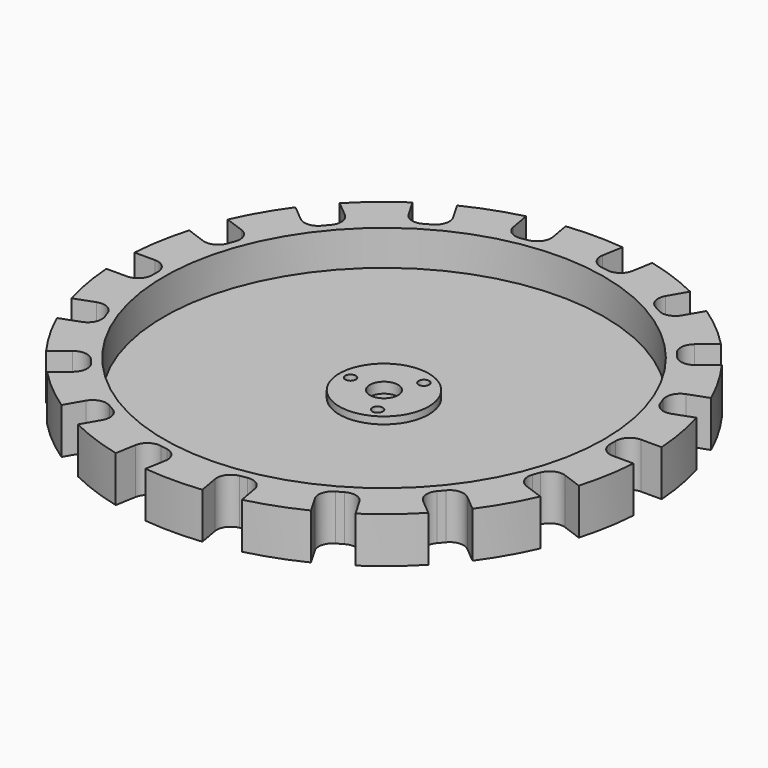
from build123d import *

# Parameters (mm, degrees)
F0_R     = 62.5
F0_R_2   = 12.7
F0_R_3   = 1.5
F0_R_4   = 4
F1_DEPTH = 3
F2_DEPTH = 13
F3_DEPTH = 5
F4_DEPTH = 2


with BuildPart() as f1:
    # F0 (on Top) → F1 (new body)
    with BuildSketch(Plane.XY):
        Circle(F0_R)
        Circle(F0_R_2, mode=Mode.SUBTRACT)
        Circle(F0_R_2)
        with Locations((-4.75, -8.227241)):
            Circle(F0_R_3, mode=Mode.SUBTRACT)
        with Locations((4.75, -8.227241)):
            Circle(F0_R_3, mode=Mode.SUBTRACT)
        with Locations((-9.5, 0)):
            Circle(F0_R_3, mode=Mode.SUBTRACT)
        with Locations((-4.75, 8.227241)):
            Circle(F0_R_3, mode=Mode.SUBTRACT)
        Circle(F0_R_4, mode=Mode.SUBTRACT)
        with Locations((4.75, 8.227241)):
            Circle(F0_R_3, mode=Mode.SUBTRACT)
        with Locations((9.5, 0)):
            Circle(F0_R_3, mode=Mode.SUBTRACT)
        with Locations((9.5, 0)):
            Circle(F0_R_3)
        with Locations((4.75, 8.227241)):
            Circle(F0_R_3)
        with Locations((-4.75, 8.227241)):
            Circle(F0_R_3)
        with Locations((-9.5, 0)):
            Circle(F0_R_3)
        with Locations((-4.75, -8.227241)):
            Circle(F0_R_3)
        with Locations((4.75, -8.227241)):
            Circle(F0_R_3)
    extrude(amount=F1_DEPTH)

    # F0 (on Top) → F2 (join)
    with BuildSketch(Plane.XY):
        with BuildLine():
            Line((69, 5), (74.833148, 5))
            ThreePointArc((74.833148, 5), (73.860581, 13.023613), (72.030257, 20.895981))
            Line((72.030257, 20.895981), (66.548892, 18.900927))
            ThreePointArc((66.548892, 18.900927), (63.490338, 19.034466), (61.42204, 21.291617))
            Line((61.42204, 21.291617), (60.738, 23.171002))
            ThreePointArc((60.738, 23.171002), (60.87154, 26.229556), (63.12869, 28.297853))
            Line((63.12869, 28.297853), (68.610056, 30.292907))
            ThreePointArc((68.610056, 30.292907), (64.951905, 37.5), (60.539455, 44.271598))
            Line((60.539455, 44.271598), (56.071005, 40.522123))
            ThreePointArc((56.071005, 40.522123), (53.151231, 39.601522), (50.435676, 41.01515))
            Line((50.435676, 41.01515), (49.150101, 42.547239))
            ThreePointArc((49.150101, 42.547239), (48.2295, 45.467012), (49.643129, 48.182567))
            Line((49.643129, 48.182567), (54.111579, 51.932042))
            ThreePointArc((54.111579, 51.932042), (48.209071, 57.453333), (41.746701, 62.307407))
            Line((41.746701, 62.307407), (38.830127, 57.255753))
            ThreePointArc((38.830127, 57.255753), (36.401302, 55.39205), (33.366025, 55.791651))
            Line((33.366025, 55.791651), (31.633975, 56.791651))
            ThreePointArc((31.633975, 56.791651), (29.770271, 59.220477), (30.169873, 62.255753))
            Line((30.169873, 62.255753), (33.086447, 67.307407))
            ThreePointArc((33.086447, 67.307407), (25.651511, 70.476947), (17.918678, 72.828023))
            Line((17.918678, 72.828023), (16.905763, 67.083494))
            ThreePointArc((16.905763, 67.083494), (15.260838, 64.501479), (12.271939, 63.838856))
            Line((12.271939, 63.838856), (10.302324, 64.186152))
            ThreePointArc((10.302324, 64.186152), (7.720308, 65.831077), (7.057685, 68.819976))
            Line((7.057685, 68.819976), (8.070601, 74.564505))
            ThreePointArc((8.070601, 74.564505), (0, 75), (-8.070601, 74.564505))
            Line((-8.070601, 74.564505), (-7.057685, 68.819976))
            ThreePointArc((-7.057685, 68.819976), (-7.720308, 65.831077), (-10.302324, 64.186152))
            Line((-10.302324, 64.186152), (-12.271939, 63.838856))
            ThreePointArc((-12.271939, 63.838856), (-15.260838, 64.501479), (-16.905763, 67.083494))
            Line((-16.905763, 67.083494), (-17.918678, 72.828023))
            ThreePointArc((-17.918678, 72.828023), (-25.651511, 70.476947), (-33.086447, 67.307407))
            Line((-33.086447, 67.307407), (-30.169873, 62.255753))
            ThreePointArc((-30.169873, 62.255753), (-29.770271, 59.220477), (-31.633975, 56.791651))
            Line((-31.633975, 56.791651), (-33.366025, 55.791651))
            ThreePointArc((-33.366025, 55.791651), (-36.401302, 55.39205), (-38.830127, 57.255753))
            Line((-38.830127, 57.255753), (-41.746701, 62.307407))
            ThreePointArc((-41.746701, 62.307407), (-48.209071, 57.453333), (-54.111579, 51.932042))
            Line((-54.111579, 51.932042), (-49.643129, 48.182567))
            ThreePointArc((-49.643129, 48.182567), (-48.2295, 45.467012), (-49.150101, 42.547239))
            Line((-49.150101, 42.547239), (-50.435676, 41.01515))
            ThreePointArc((-50.435676, 41.01515), (-53.151231, 39.601522), (-56.071005, 40.522123))
            Line((-56.071005, 40.522123), (-60.539455, 44.271598))
            ThreePointArc((-60.539455, 44.271598), (-64.951905, 37.5), (-68.610056, 30.292907))
            Line((-68.610056, 30.292907), (-63.12869, 28.297853))
            ThreePointArc((-63.12869, 28.297853), (-60.87154, 26.229556), (-60.738, 23.171002))
            Line((-60.738, 23.171002), (-61.42204, 21.291617))
            ThreePointArc((-61.42204, 21.291617), (-63.490338, 19.034466), (-66.548892, 18.900927))
            Line((-66.548892, 18.900927), (-72.030257, 20.895981))
            ThreePointArc((-72.030257, 20.895981), (-73.860581, 13.023613), (-74.833148, 5))
            Line((-74.833148, 5), (-69, 5))
            ThreePointArc((-69, 5), (-66.171573, 3.828427), (-65, 1))
            Line((-65, 1), (-65, -1))
            ThreePointArc((-65, -1), (-66.171573, -3.828427), (-69, -5))
            Line((-69, -5), (-74.833148, -5))
            ThreePointArc((-74.833148, -5), (-73.860581, -13.023613), (-72.030257, -20.895981))
            Line((-72.030257, -20.895981), (-66.548892, -18.900927))
            ThreePointArc((-66.548892, -18.900927), (-63.490338, -19.034466), (-61.42204, -21.291617))
            Line((-61.42204, -21.291617), (-60.738, -23.171002))
            ThreePointArc((-60.738, -23.171002), (-60.87154, -26.229556), (-63.12869, -28.297853))
            Line((-63.12869, -28.297853), (-68.610056, -30.292907))
            ThreePointArc((-68.610056, -30.292907), (-64.951905, -37.5), (-60.539455, -44.271598))
            Line((-60.539455, -44.271598), (-56.071005, -40.522123))
            ThreePointArc((-56.071005, -40.522123), (-53.151231, -39.601522), (-50.435676, -41.01515))
            Line((-50.435676, -41.01515), (-49.150101, -42.547239))
            ThreePointArc((-49.150101, -42.547239), (-48.2295, -45.467012), (-49.643129, -48.182567))
            Line((-49.643129, -48.182567), (-54.111579, -51.932042))
            ThreePointArc((-54.111579, -51.932042), (-48.209071, -57.453333), (-41.746701, -62.307407))
            Line((-41.746701, -62.307407), (-38.830127, -57.255753))
            ThreePointArc((-38.830127, -57.255753), (-36.401302, -55.39205), (-33.366025, -55.791651))
            Line((-33.366025, -55.791651), (-31.633975, -56.791651))
            ThreePointArc((-31.633975, -56.791651), (-29.770271, -59.220477), (-30.169873, -62.255753))
            Line((-30.169873, -62.255753), (-33.086447, -67.307407))
            ThreePointArc((-33.086447, -67.307407), (-25.651511, -70.476947), (-17.918678, -72.828023))
            Line((-17.918678, -72.828023), (-16.905763, -67.083494))
            ThreePointArc((-16.905763, -67.083494), (-15.260838, -64.501479), (-12.271939, -63.838856))
            Line((-12.271939, -63.838856), (-10.302324, -64.186152))
            ThreePointArc((-10.302324, -64.186152), (-7.720308, -65.831077), (-7.057685, -68.819976))
            Line((-7.057685, -68.819976), (-8.070601, -74.564505))
            ThreePointArc((-8.070601, -74.564505), (0, -75), (8.070601, -74.564505))
            Line((8.070601, -74.564505), (7.057685, -68.819976))
            ThreePointArc((7.057685, -68.819976), (7.720308, -65.831077), (10.302324, -64.186152))
            Line((10.302324, -64.186152), (12.271939, -63.838856))
            ThreePointArc((12.271939, -63.838856), (15.260838, -64.501479), (16.905763, -67.083494))
            Line((16.905763, -67.083494), (17.918678, -72.828023))
            ThreePointArc((17.918678, -72.828023), (25.651511, -70.476947), (33.086447, -67.307407))
            Line((33.086447, -67.307407), (30.169873, -62.255753))
            ThreePointArc((30.169873, -62.255753), (29.770271, -59.220477), (31.633975, -56.791651))
            Line((31.633975, -56.791651), (33.366025, -55.791651))
            ThreePointArc((33.366025, -55.791651), (36.401302, -55.39205), (38.830127, -57.255753))
            Line((38.830127, -57.255753), (41.746701, -62.307407))
            ThreePointArc((41.746701, -62.307407), (48.209071, -57.453333), (54.111579, -51.932042))
            Line((54.111579, -51.932042), (49.643129, -48.182567))
            ThreePointArc((49.643129, -48.182567), (48.2295, -45.467012), (49.150101, -42.547239))
            Line((49.150101, -42.547239), (50.435676, -41.01515))
            ThreePointArc((50.435676, -41.01515), (53.151231, -39.601522), (56.071005, -40.522123))
            Line((56.071005, -40.522123), (60.539455, -44.271598))
            ThreePointArc((60.539455, -44.271598), (64.951905, -37.5), (68.610056, -30.292907))
            Line((68.610056, -30.292907), (63.12869, -28.297853))
            ThreePointArc((63.12869, -28.297853), (60.87154, -26.229556), (60.738, -23.171002))
            Line((60.738, -23.171002), (61.42204, -21.291617))
            ThreePointArc((61.42204, -21.291617), (63.490338, -19.034466), (66.548892, -18.900927))
            Line((66.548892, -18.900927), (72.030257, -20.895981))
            ThreePointArc((72.030257, -20.895981), (73.860581, -13.023613), (74.833148, -5))
            Line((74.833148, -5), (69, -5))
            ThreePointArc((69, -5), (66.171573, -3.828427), (65, -1))
            Line((65, -1), (65, 1))
            ThreePointArc((65, 1), (66.171573, 3.828427), (69, 5))
        make_face()
        Circle(F0_R, mode=Mode.SUBTRACT)
    extrude(amount=F2_DEPTH)

    # F0 (on Top) → F3 (join)
    with BuildSketch(Plane.XY):
        Circle(F0_R_2)
        with Locations((-4.75, -8.227241)):
            Circle(F0_R_3, mode=Mode.SUBTRACT)
        with Locations((4.75, -8.227241)):
            Circle(F0_R_3, mode=Mode.SUBTRACT)
        with Locations((-9.5, 0)):
            Circle(F0_R_3, mode=Mode.SUBTRACT)
        with Locations((-4.75, 8.227241)):
            Circle(F0_R_3, mode=Mode.SUBTRACT)
        Circle(F0_R_4, mode=Mode.SUBTRACT)
        with Locations((4.75, 8.227241)):
            Circle(F0_R_3, mode=Mode.SUBTRACT)
        with Locations((9.5, 0)):
            Circle(F0_R_3, mode=Mode.SUBTRACT)
        with Locations((-4.75, 8.227241)):
            Circle(F0_R_3)
        with Locations((9.5, 0)):
            Circle(F0_R_3)
        with Locations((-4.75, -8.227241)):
            Circle(F0_R_3)
    extrude(amount=F3_DEPTH)

    # F0 (on Top) → F4 (join)
    with BuildSketch(Plane.XY):
        Circle(F0_R_4)
    extrude(amount=F4_DEPTH)


solid = f1.part
